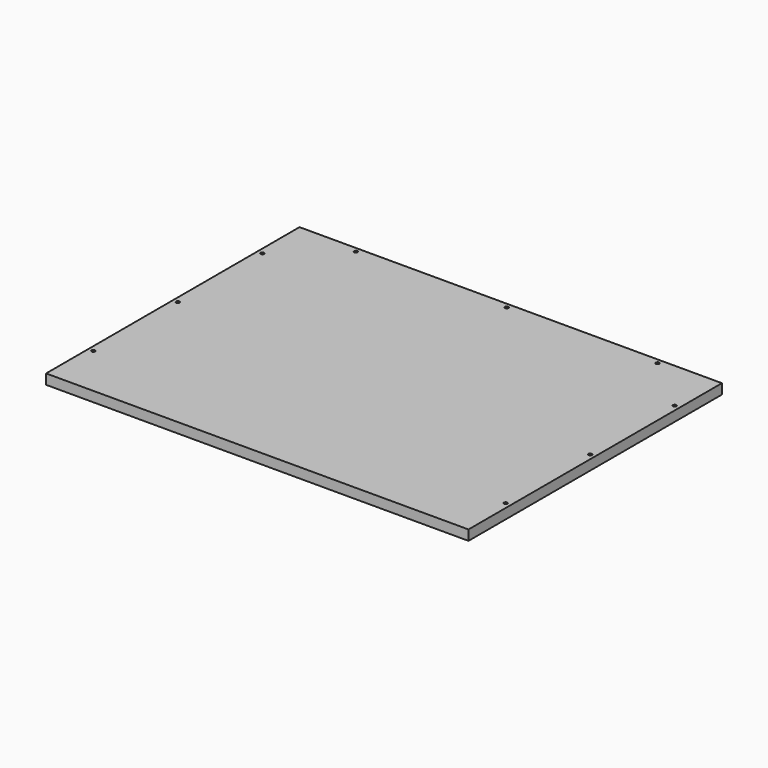
from build123d import *

# Parameters (mm, degrees)
CYLINDER072_R     = 1.7
CYLINDER072_DEPTH = 20
CYLINDER073_R     = 1.7
CYLINDER073_DEPTH = 20
CYLINDER069_R     = 1.7
CYLINDER069_DEPTH = 20
CYLINDER071_R     = 1.7
CYLINDER071_DEPTH = 20
CYLINDER070_R     = 1.7
CYLINDER070_DEPTH = 20
SKETCH036_R       = 1.7
PAD034_DEPTH      = 20
CYLINDER068_R     = 1.7
CYLINDER068_DEPTH = 20
SKETCH035_W       = 420
SKETCH035_H       = 315
PAD033_DEPTH      = 10


with BuildPart() as cylinder072:
    # Cylinder072 → Cylinder072 (new body)
    with BuildSketch(Plane(origin=(205, 117.5, 235), x_dir=(1, 0, 0), z_dir=(0, 0, 1))):
        Circle(CYLINDER072_R)
    extrude(amount=CYLINDER072_DEPTH)


with BuildPart() as cylinder073:
    # Cylinder073 → Cylinder073 (new body)
    with BuildSketch(Plane(origin=(205, -92.5, 235), x_dir=(1, 0, 0), z_dir=(0, 0, 1))):
        Circle(CYLINDER073_R)
    extrude(amount=CYLINDER073_DEPTH)


with BuildPart() as cylinder069:
    # Cylinder069 → Cylinder069 (new body)
    with BuildSketch(Plane(origin=(-205, 117.5, 240), x_dir=(1, 0, 0), z_dir=(0, 0, 1))):
        Circle(CYLINDER069_R)
    extrude(amount=CYLINDER069_DEPTH)


with BuildPart() as cylinder071:
    # Cylinder071 → Cylinder071 (new body)
    with BuildSketch(Plane(origin=(205, 12.5, 235), x_dir=(1, 0, 0), z_dir=(0, 0, 1))):
        Circle(CYLINDER071_R)
    extrude(amount=CYLINDER071_DEPTH)


with BuildPart() as cylinder070:
    # Cylinder070 → Cylinder070 (new body)
    with BuildSketch(Plane(origin=(-205, 12.5, 240), x_dir=(1, 0, 0), z_dir=(0, 0, 1))):
        Circle(CYLINDER070_R)
    extrude(amount=CYLINDER070_DEPTH)


with BuildPart() as pad034:
    # Sketch036 → Pad034 (new body)
    with BuildSketch(Plane(origin=(0, -75, 230), x_dir=(1, 0, 0), z_dir=(0, 0, 1))):
        with Locations((-150, 240)):
            Circle(SKETCH036_R)
        with Locations((150, 240)):
            Circle(SKETCH036_R)
        with Locations((0, 240)):
            Circle(SKETCH036_R)
    extrude(amount=PAD034_DEPTH)


with BuildPart() as fusion029:
    # Cylinder068 → Cylinder068 (new body)
    with BuildSketch(Plane(origin=(-205, -92.5, 240), x_dir=(1, 0, 0), z_dir=(0, 0, 1))):
        Circle(CYLINDER068_R)
    extrude(amount=CYLINDER068_DEPTH)

    # Fusion029: union Cylinder072, Cylinder073, Cylinder069, Cylinder071, Cylinder070, Pad034
    add(cylinder072.part)
    add(cylinder073.part)
    add(cylinder069.part)
    add(cylinder071.part)
    add(cylinder070.part)
    add(pad034.part)


with BuildPart() as cut023:
    # Sketch035 → Pad033 (new body)
    with BuildSketch(Plane(origin=(0, 0, 240), x_dir=(1, 0, 0), z_dir=(0, 0, -1))):
        with Locations((0, -12.5)):
            Rectangle(SKETCH035_W, SKETCH035_H)
    extrude(amount=-PAD033_DEPTH)

    # Cut023: cut Fusion029
    add(fusion029.part, mode=Mode.SUBTRACT)


solid = cut023.part
